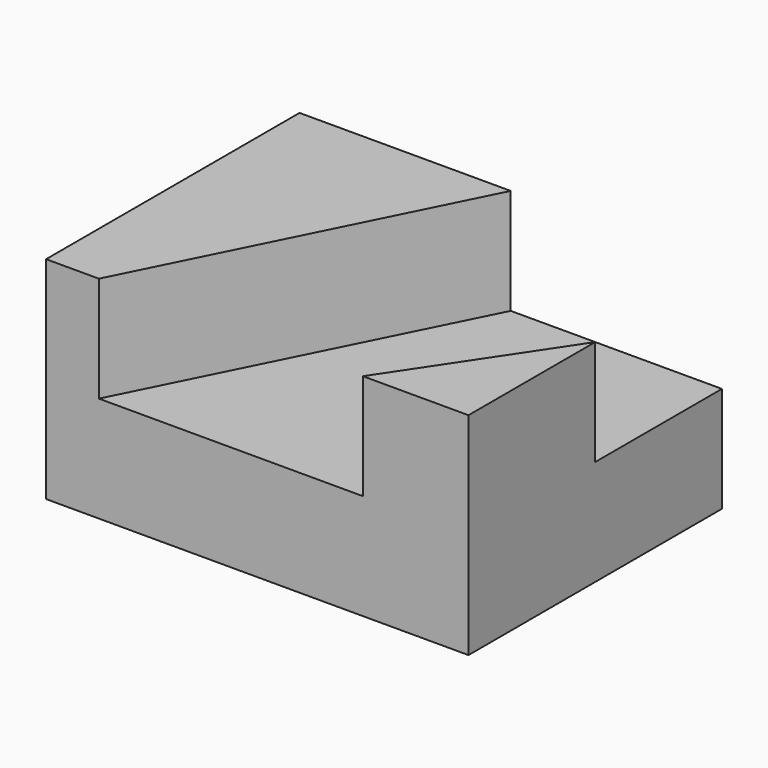
from build123d import *

# Parameters (mm, degrees)
F0_W     = 101.6
F0_H     = 25.4
F1_DEPTH = 76.2
F3_DEPTH = 25.4


with BuildPart() as f1:
    # F0 (on Front) → F1 (new body)
    with BuildSketch(Plane.XZ):
        with Locations((5.67447, -25.214066)):
            Rectangle(F0_W, F0_H)
    extrude(amount=F1_DEPTH)

    # F2 (on face) → F3 (join)
    with BuildSketch(Plane.XY.offset(-12.514066)):
        Polygon((-45.12553, 0), (-45.12553, -76.2), (-32.42553, -76.2), (5.67447, 0), align=None)
        Polygon((56.47447, -76.2), (56.47447, -38.1), (31.07447, -76.2), align=None)
    extrude(amount=F3_DEPTH)


solid = f1.part
